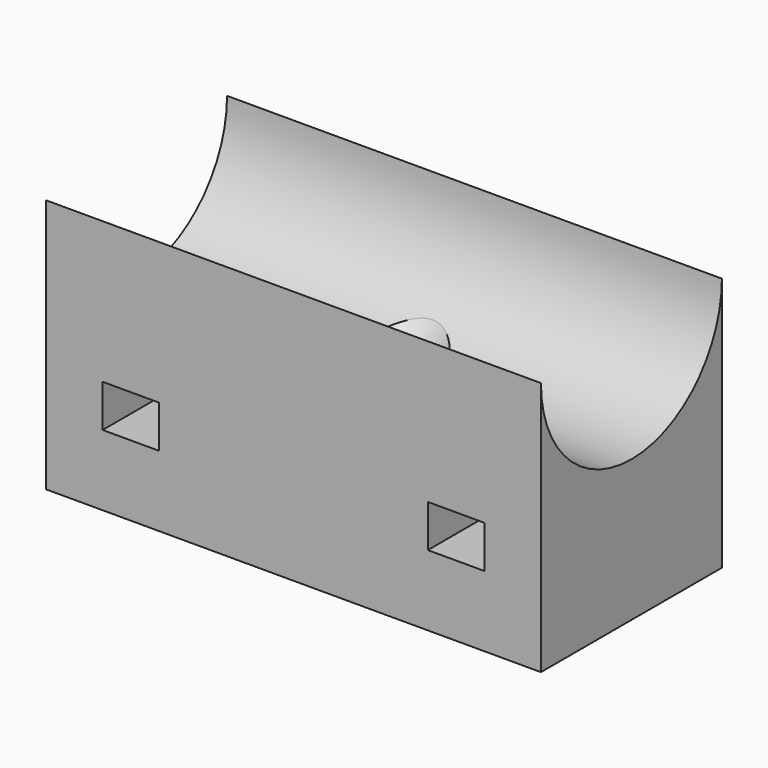
from build123d import *

# Parameters (mm, degrees)
F0_W     = 35
F0_H     = 16
F1_DEPTH = 18
F2_R     = 8
F3_DEPTH = 40
F4_W     = 4
F4_H     = 3
F5_DEPTH = 25
F6_R     = 1.5
F7_DEPTH = 18.001


with BuildPart() as f1:
    # F0 (on Top) → F1 (new body)
    with BuildSketch(Plane.XY):
        Rectangle(F0_W, F0_H)
    extrude(amount=F1_DEPTH)

    # F2 (on face) → F3 (cut)
    with BuildSketch(Plane(origin=(-17.5, 0, 0), x_dir=(0, -1, 0), z_dir=(-1, 0, 0))):
        with Locations((0, 18)):
            Circle(F2_R)
    extrude(amount=-F3_DEPTH, mode=Mode.SUBTRACT)

    # F4 (on face) → F5 (cut)
    with BuildSketch(Plane.XZ.offset(8)):
        with Locations((-11.5, 6.5)):
            Rectangle(F4_W, F4_H)
        with Locations((11.5, 6.5)):
            Rectangle(F4_W, F4_H)
    extrude(amount=-F5_DEPTH, mode=Mode.SUBTRACT)

    # F6 (on face) → F7 (cut, through all)
    with BuildSketch(Plane(origin=(0, 0, 0), x_dir=(1, 0, 0), z_dir=(0, 0, -1))):
        Circle(F6_R)
    extrude(amount=-F7_DEPTH, mode=Mode.SUBTRACT)

    # F8 (on Right) → F9 (revolve, cut)
    with BuildSketch(Plane.YZ):
        Polygon((-4.5, 11.5), (0, 6), (0, 11.5), align=None)
    revolve(axis=Axis((0, 0, 8.75), (0, 0, -1)), mode=Mode.SUBTRACT)


solid = f1.part
